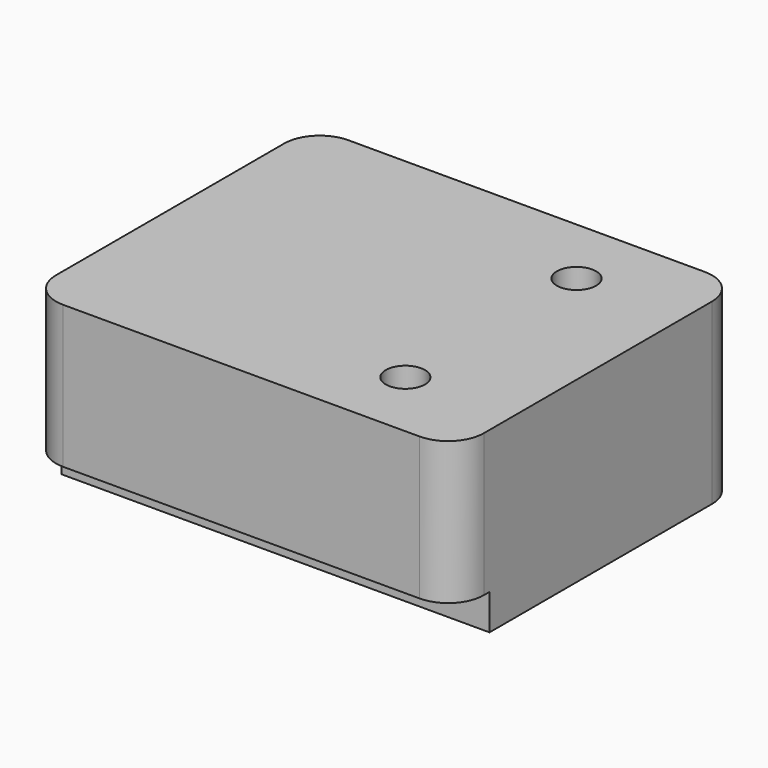
from build123d import *

# Parameters (mm, degrees)
F0_W     = 60
F0_H     = 50
F0_R     = 2.75
F1_DEPTH = 25
F2_W     = 60
F2_H     = 5
F3_DEPTH = 6
F4_R     = 5
F5_W     = 27
F5_H     = 28
F6_DEPTH = 17
F7_R     = 5


with BuildPart() as f1:
    # F0 (on Top) → F1 (new body)
    with BuildSketch(Plane.XY):
        Rectangle(F0_W, F0_H)
        with Locations((15, -15)):
            Circle(F0_R, mode=Mode.SUBTRACT)
        with Locations((15, 15)):
            Circle(F0_R, mode=Mode.SUBTRACT)
    extrude(amount=F1_DEPTH)

    # F2 (on face) → F3 (cut)
    with BuildSketch(Plane.XZ.offset(25)):
        with Locations((0, 2.5)):
            Rectangle(F2_W, F2_H)
    extrude(amount=-F3_DEPTH, mode=Mode.SUBTRACT)

    # F4
    f4_edges = [f1.edges().sort_by_distance(p)[0] for p in [
        (30, -25, 15),
        (-30, -25, 15),
        (-30, 25, 12.5),
        (30, 25, 12.5),
    ]]
    fillet(f4_edges, radius=F4_R)

    # F5 (on face) → F6 (cut)
    with BuildSketch(Plane(origin=(0, 0, 0), x_dir=(1, 0, 0), z_dir=(0, 0, -1))):
        with Locations((-8.5, -3)):
            Rectangle(F5_W, F5_H)
    extrude(amount=-F6_DEPTH, mode=Mode.SUBTRACT)

    # F7
    f7_edges = [f1.edges().sort_by_distance(p)[0] for p in [
        (-8.5, -11, 17),
        (5, 3, 17),
        (-8.5, 17, 17),
        (-22, 3, 17),
    ]]
    fillet(f7_edges, radius=F7_R)


solid = f1.part
